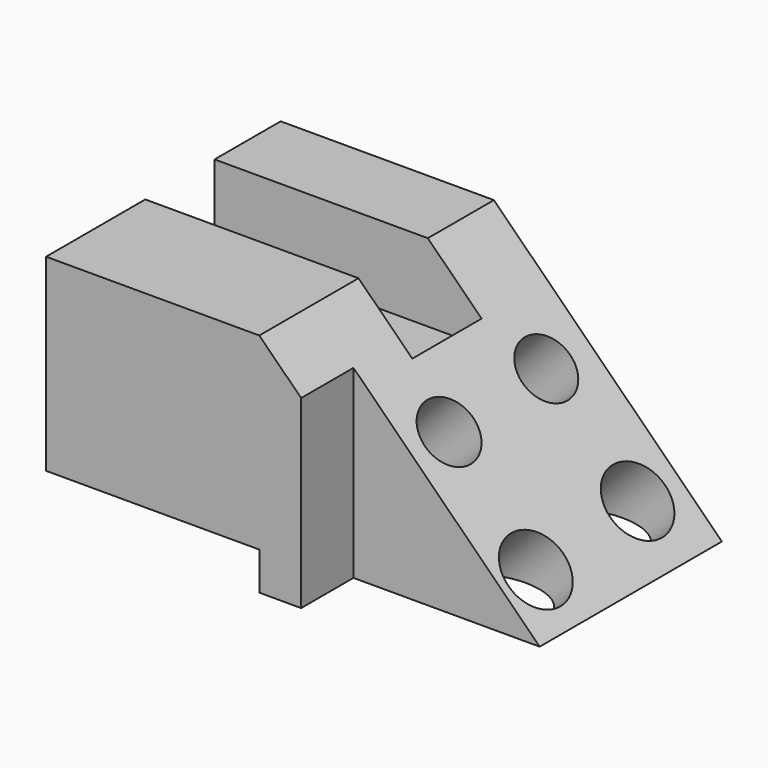
from build123d import *

# Parameters (mm, degrees)
F1_DEPTH  = 79.502
F2_W      = 30.8898873627
F2_H      = 37.5404208899
F3_DEPTH  = 25.4
F4_W      = 57.8284673393
F4_H      = 24.1576582193
F5_DEPTH  = 12.446
F6_W      = 72.3921172321
F6_H      = 23.4968811274
F7_DEPTH  = 21.082
F8_W      = 50.496625714
F8_H      = 17.7371860404
F9_DEPTH  = 56.388
F10_R     = 8.2310342768
F10_R_2   = 9.3664724304
F10_R_3   = 8.1183056078
F10_R_4   = 9.3356883849
F11_DEPTH = 85.344


with BuildPart() as f1:
    # F0 (on Front) → F1 (new body)
    with BuildSketch(Plane.XZ):
        Polygon((0, 37.5528037548), (-57.8284673393, 37.5528037548), (-57.8284673393, -13.5647049174), (0, -13.5647049174), (0, -23.8453224301), (61.8264861405, -23.8453224301), align=None)
    extrude(amount=F1_DEPTH)

    # F2 (on face) → F3 (cut)
    with BuildSketch(Plane.XY.offset(37.5528037548)):
        with Locations((-73.2734110206, -35.337369889)):
            Rectangle(F2_W, F2_H)
    extrude(amount=-F3_DEPTH, mode=Mode.SUBTRACT)

    # F4 (on face) → F5 (join)
    with BuildSketch(Plane.XY.offset(37.5528037548)):
        with Locations((-28.9142336696, -37.3493023217)):
            Rectangle(F4_W, F4_H)
    extrude(amount=-F5_DEPTH)

    # F6 (on face) → F7 (cut)
    with BuildSketch(Plane.XY.offset(37.5528037548)):
        with Locations((-21.6324087232, -34.1343507171)):
            Rectangle(F6_W, F6_H)
    extrude(amount=-F7_DEPTH, mode=Mode.SUBTRACT)

    # F8 (on face) → F9 (cut)
    with BuildSketch(Plane(origin=(0, 0, -23.8453224301), x_dir=(1, 0, 0), z_dir=(0, 0, -1))):
        with Locations((36.5781732835, 70.6334069798)):
            Rectangle(F8_W, F8_H)
    extrude(amount=-F9_DEPTH, mode=Mode.SUBTRACT)

    # F10 (on face) → F11 (cut)
    with BuildSketch(Plane(origin=(18.7759480822, 0, 18.9069433549), x_dir=(0.7095605761, 0, -0.7046444414), z_dir=(0.7046444414, 0, 0.7095605761))):
        with Locations((11.4842364565, -48.8504841924)):
            Circle(F10_R)
        with Locations((46.0814908147, -50.1335784793)):
            Circle(F10_R_2)
        with Locations((10.1835876703, -14.756876044)):
            Circle(F10_R_3)
        with Locations((44.260583818, -14.0236811712)):
            Circle(F10_R_4)
    extrude(amount=-F11_DEPTH, mode=Mode.SUBTRACT)


solid = f1.part
